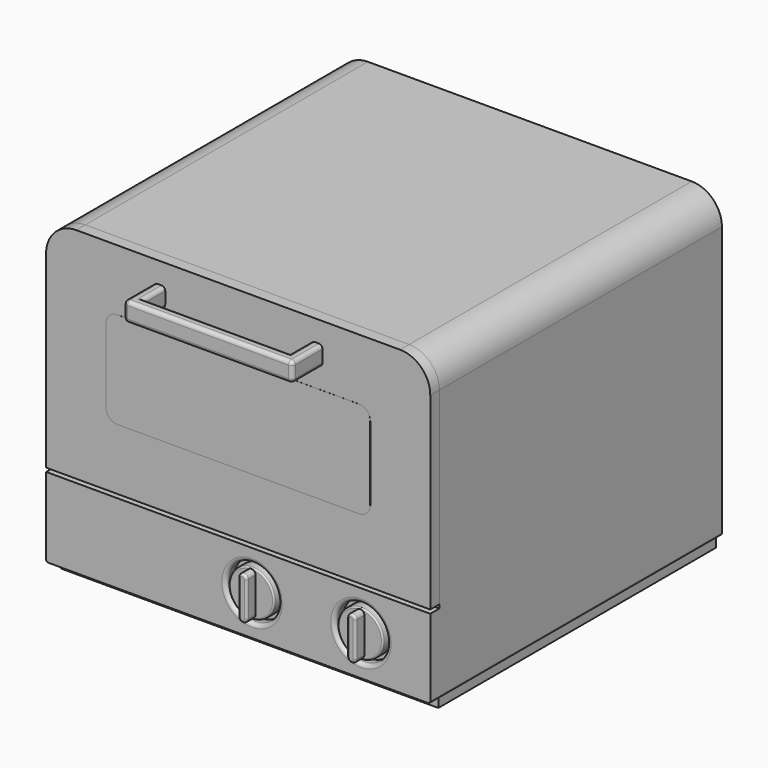
from build123d import *

# Parameters (mm, degrees)
SKETCH_W        = 500
SKETCH_H        = 460
PAD_DEPTH       = 14
SKETCH001_W     = 509
SKETCH001_H     = 468
PAD001_DEPTH    = 400
SKETCH002_W     = 509
SKETCH002_H     = 290
SKETCH002_H_2   = 105
PAD002_DEPTH    = 15
PAD003_DEPTH    = 15
SKETCH004_W     = 223.4271750293
SKETCH004_H     = 25.6065451083
PAD004_DEPTH    = 50
POCKET_DEPTH    = 386.2848248938
SKETCH006_R     = 35
POCKET001_DEPTH = 14
SKETCH007_R     = 30
PAD005_DEPTH    = 15
PAD006_DEPTH    = 15
SKETCH009_W     = 454.4790583689
SKETCH009_H     = 187.021194
POCKET002_DEPTH = 450
FILLET_R        = 3
FILLET001_R     = 40
FILLET002_R     = 5
FILLET003_R     = 2
FILLET004_R     = 3
FILLET005_R     = 10
FILLET006_R     = 5
FILLET007_R     = 5
POCKET003_DEPTH = 30
SKETCH015_R     = 30
POCKET004_DEPTH = 30
SKETCH016_R     = 30
POCKET005_DEPTH = 30
SKETCH019_W     = 225.385908
SKETCH019_H     = 30.579953
POCKET006_DEPTH = 50
SKETCH023_W     = 509
SKETCH023_H     = 15
POCKET009_DEPTH = 290
SKETCH011_R     = 30
PAD007_DEPTH    = 15
PAD008_DEPTH    = 15
FILLET008_R     = 2
FILLET009_R     = 3
SKETCH013_R     = 30
PAD009_DEPTH    = 15
PAD010_DEPTH    = 15
FILLET010_R     = 2
FILLET011_R     = 3
PAD011_DEPTH    = 15
PAD012_DEPTH    = 50
SKETCH020_W     = 193.4271750293
SKETCH020_H     = 35
POCKET007_DEPTH = 25.6075451083
FILLET012_R     = 5
FILLET013_R     = 5
PAD013_DEPTH    = 15
POCKET008_DEPTH = 15


with BuildPart() as body:
    # Sketch → Pad (new body)
    with BuildSketch(Plane.XY):
        Rectangle(SKETCH_W, SKETCH_H)
    extrude(amount=PAD_DEPTH)

    # Sketch001 (on Face6 of Pad) → Pad001 (join)
    with BuildSketch(Plane.XY.offset(14)):
        Rectangle(SKETCH001_W, SKETCH001_H)
    extrude(amount=PAD001_DEPTH)

    # Sketch002 (on Face7 of Pad001) → Pad002 (join)
    with BuildSketch(Plane.XZ.offset(234)):
        with Locations((0, 269)):
            Rectangle(SKETCH002_W, SKETCH002_H)
        with BuildLine():
            Line((-175, 317.9611046793), (-175, 220.0388953207))
            ThreePointArc((-175, 220.0388953207), (-170.6066017178, 209.4322936029), (-160, 205.0388953207))
            Line((-160, 205.0388953207), (160, 205.0388953207))
            ThreePointArc((160, 205.0388953207), (170.6066017178, 209.4322936029), (175, 220.0388953207))
            Line((175, 220.0388953207), (175, 317.9611046793))
            ThreePointArc((175, 317.9611046793), (170.6066017178, 328.5677063971), (160, 332.9611046793))
            Line((160, 332.9611046793), (-160, 332.9611046793))
            ThreePointArc((-160, 332.9611046793), (-170.6066017178, 328.5677063971), (-175, 317.9611046793))
        make_face(mode=Mode.SUBTRACT)
        with Locations((0, 66.5)):
            Rectangle(SKETCH002_W, SKETCH002_H_2)
    extrude(amount=PAD002_DEPTH)

    # Sketch003 (on Face30 of Pad002) → Pad003 (join)
    with BuildSketch(Plane.XZ.offset(234)):
        with BuildLine():
            Line((-175, 317.9610418038), (-175, 220.0388953207))
            ThreePointArc((-175, 220.0388953207), (-170.6066017178, 209.4322936029), (-160, 205.0388953207))
            Line((-160, 205.0388953207), (160.0000382942, 205.0388953207))
            ThreePointArc((160.0000382942, 205.0388953207), (170.606640012, 209.4322936029), (175.0000382942, 220.0388953207))
            Line((175.0000382942, 220.0388953207), (175.0000382942, 317.9610418038))
            ThreePointArc((175.0000382942, 317.9610418038), (170.606640012, 328.5676435216), (160.0000382942, 332.9610418038))
            Line((160.0000382942, 332.9610418038), (-160, 332.9610418038))
            ThreePointArc((-160, 332.9610418038), (-170.6066017178, 328.5676435216), (-175, 317.9610418038))
        make_face()
    extrude(amount=PAD003_DEPTH)

    # Sketch004 (on Face21 of Pad003) → Pad004 (join)
    with BuildSketch(Plane.XZ.offset(249)):
        with Locations((0.1004454124, 373.4805523397)):
            Rectangle(SKETCH004_W, SKETCH004_H)
    extrude(amount=PAD004_DEPTH)

    # Sketch005 (on Face23 of Pad004) → Pocket (cut, through all)
    with BuildSketch(Plane.XY.offset(386.2838248938)):
        with BuildLine():
            Line((-92.1015669712, -250.1999960338), (-92.1015669712, -274.604765518))
            ThreePointArc((-92.1015669712, -274.604765518), (-89.1726347831, -281.6758333298), (-82.1015669712, -284.604765518))
            Line((-82.1015669712, -284.604765518), (82.1015669712, -284.604765518))
            ThreePointArc((82.1015669712, -284.604765518), (89.1726347831, -281.6758333298), (92.1015669712, -274.604765518))
            Line((92.1015669712, -274.604765518), (92.1015669712, -250.7131694348))
            ThreePointArc((92.1015669712, -250.7131694348), (91.8096688281, -250.0070591316), (91.1043834506, -249.7131734011))
            Line((91.1043834506, -249.713173401), (-91.0987504919, -249.2))
            ThreePointArc((-91.0987504919, -249.2000000001), (-91.8076772745, -249.4918941769), (-92.1015669712, -250.1999960338))
        make_face()
    extrude(amount=-POCKET_DEPTH, mode=Mode.SUBTRACT)

    # Sketch006 (on Face13 of Pocket) → Pocket001 (cut)
    with BuildSketch(Plane.XZ.offset(249)):
        with Locations((162.575882, 66.5)):
            Circle(SKETCH006_R)
        with Locations((18.35178, 66.5)):
            Circle(SKETCH006_R)
    extrude(amount=-POCKET001_DEPTH, mode=Mode.SUBTRACT)

    # Sketch007 (on Face24 of Pocket001) → Pad005 (join)
    with BuildSketch(Plane.XZ.offset(235)):
        with Locations((18.35178, 66.5)):
            Circle(SKETCH007_R)
        with Locations((162.575882, 66.5)):
            Circle(SKETCH007_R)
    extrude(amount=PAD005_DEPTH)

    # Sketch008 (on Face42 of Pad005) → Pad006 (join)
    with BuildSketch(Plane.XZ.offset(250)):
        with BuildLine():
            ThreePointArc((23.8946803606, 89.5), (18.35178, 95.0429003606), (12.8088796394, 89.5))
            Line((12.8088796394, 89.5), (12.8088796394, 43.5))
            ThreePointArc((12.8088796394, 43.5), (18.35178, 37.9570996394), (23.8946803606, 43.5))
            Line((23.8946803606, 89.5), (23.8946803606, 43.5))
        make_face()
        with BuildLine():
            ThreePointArc((168.1187823606, 89.5), (162.575882, 95.0429003606), (157.0329816394, 89.5))
            Line((157.0329816394, 89.5), (157.0329816394, 43.5))
            ThreePointArc((157.0329816394, 43.5), (162.575882, 37.9570996394), (168.1187823606, 43.5))
            Line((168.1187823606, 89.5), (168.1187823606, 43.5))
        make_face()
    extrude(amount=PAD006_DEPTH)

    # Sketch009 (on Face7 of Pad001) → Pocket002 (cut)
    with BuildSketch(Plane.XZ.offset(234)):
        with Locations((0, 284.280754)):
            Rectangle(SKETCH009_W, SKETCH009_H)
    extrude(amount=-POCKET002_DEPTH, mode=Mode.SUBTRACT)

    # Fillet
    fillet_edges = [body.edges().sort_by_distance(p)[0] for p in [
        (-254.5, 0, 14),
        (254.5, 0, 14),
    ]]
    fillet(fillet_edges, radius=FILLET_R)

    # Fillet001
    fillet001_edges = [body.edges().sort_by_distance(p)[0] for p in [
        (254.5, 0, 414),
        (-254.5, 0, 414),
    ]]
    fillet(fillet001_edges, radius=FILLET001_R)

    # Fillet002
    fillet002_edges = [body.edges().sort_by_distance(p)[0] for p in [
        (-16.64822, -249, 66.5),
        (127.575882, -249, 66.5),
    ]]
    fillet(fillet002_edges, radius=FILLET002_R)

    # Fillet003
    fillet003_edges = [body.edges().sort_by_distance(p)[0] for p in [
        (-11.64822, -250, 66.5),
        (132.575882, -250, 66.5),
    ]]
    fillet(fillet003_edges, radius=FILLET003_R)

    # Fillet004
    fillet004_edges = [body.edges().sort_by_distance(p)[0] for p in [
        (23.89468, -265, 66.5),
        (168.118782, -265, 66.5),
    ]]
    fillet(fillet004_edges, radius=FILLET004_R)

    # Fillet005
    fillet005_edges = [body.edges().sort_by_distance(p)[0] for p in [
        (-111.613142, -299, 373.480552),
        (111.814033, -299, 373.480552),
    ]]
    fillet(fillet005_edges, radius=FILLET005_R)

    # Fillet006
    fillet006_edges = [body.edges().sort_by_distance(p)[0] for p in [
        (0.100445, -299, 386.283825),
    ]]
    fillet(fillet006_edges, radius=FILLET006_R)

    # Fillet007
    fillet007_edges = [body.edges().sort_by_distance(p)[0] for p in [
        (-92.101567, -262.402381, 386.283825),
    ]]
    fillet(fillet007_edges, radius=FILLET007_R)

    # Sketch010 (on Face2 of Fillet007) → Pocket003 (cut)
    with BuildSketch(Plane.XZ.offset(249)):
        with BuildLine():
            Line((-175, 317.9611046793), (-175, 220.0388953207))
            ThreePointArc((-175, 220.0388953207), (-170.6066017178, 209.4322936029), (-160, 205.0388953207))
            Line((-160, 205.0388953207), (160, 205.0388953207))
            ThreePointArc((160, 205.0388953207), (170.6066017178, 209.4322936029), (175, 220.0388953207))
            Line((175, 220.0388953207), (175, 317.9611046793))
            ThreePointArc((175, 317.9611046793), (170.6066017178, 328.5677063971), (160, 332.9611046793))
            Line((160, 332.9611046793), (-160, 332.9611046793))
            ThreePointArc((-160, 332.9611046793), (-170.6066017178, 328.5677063971), (-175, 317.9611046793))
        make_face()
    extrude(amount=-POCKET003_DEPTH, mode=Mode.SUBTRACT)

    # Sketch015 (on Face88 of Pocket003) → Pocket004 (cut)
    with BuildSketch(Plane.XZ.offset(265)):
        with Locations((18.35178, 66.5)):
            Circle(SKETCH015_R)
    extrude(amount=-POCKET004_DEPTH, mode=Mode.SUBTRACT)

    # Sketch016 (on Face85 of Pocket004) → Pocket005 (cut)
    with BuildSketch(Plane.XZ.offset(265)):
        with Locations((162.575882, 66.5)):
            Circle(SKETCH016_R)
    extrude(amount=-POCKET005_DEPTH, mode=Mode.SUBTRACT)

    # Sketch019 (on Face54 of Pocket005) → Pocket006 (cut)
    with BuildSketch(Plane.XZ.offset(299)):
        with Locations((1.079812, 375.9672565)):
            Rectangle(SKETCH019_W, SKETCH019_H)
    extrude(amount=-POCKET006_DEPTH, mode=Mode.SUBTRACT)

    # Sketch023 (on Face10 of Pocket006) → Pocket009 (cut)
    with BuildSketch(Plane(origin=(0, 0, 124), x_dir=(1, 0, 0), z_dir=(0, 0, -1))):
        with Locations((0, 241.5)):
            Rectangle(SKETCH023_W, SKETCH023_H)
    extrude(amount=-POCKET009_DEPTH, mode=Mode.SUBTRACT)


with BuildPart() as body001:
    # Sketch011 (on DatumPlane) → Pad007 (new body)
    with BuildSketch(Plane(origin=(18.35178, -235, 66.5), x_dir=(0, 0, 1), z_dir=(0, -1, 0))):
        Circle(SKETCH011_R)
    extrude(amount=PAD007_DEPTH)

    # Sketch012 (on Face3 of Pad007) → Pad008 (join)
    with BuildSketch(Plane(origin=(18.35178, -250, 66.5), x_dir=(0, 0, 1), z_dir=(0, -1, 0))):
        with BuildLine():
            ThreePointArc((-23, 5.5429), (-28.5429, 0), (-23, -5.5429))
            Line((-23, -5.5429), (23.0000001087, -5.5429))
            ThreePointArc((23.0000001087, -5.5429), (28.5429001087, 0), (23.0000001087, 5.5429))
            Line((-23, 5.5429), (23.0000001087, 5.5429))
        make_face()
    extrude(amount=PAD008_DEPTH)

    # Fillet008
    fillet008_edges = [body001.edges().sort_by_distance(p)[0] for p in [
        (18.35178, -250, 36.5),
    ]]
    fillet(fillet008_edges, radius=FILLET008_R)

    # Fillet009
    fillet009_edges = [body001.edges().sort_by_distance(p)[0] for p in [
        (12.80888, -265, 66.5),
    ]]
    fillet(fillet009_edges, radius=FILLET009_R)


with BuildPart() as body002:
    # Sketch013 (on DatumPlane) → Pad009 (new body)
    with BuildSketch(Plane(origin=(162.575882, -235, 66.5), x_dir=(0, 0, 1), z_dir=(0, -1, 0))):
        Circle(SKETCH013_R)
    extrude(amount=PAD009_DEPTH)

    # Sketch014 (on Face3 of Pad009) → Pad010 (join)
    with BuildSketch(Plane(origin=(162.575882, -250, 66.5), x_dir=(0, 0, 1), z_dir=(0, -1, 0))):
        with BuildLine():
            ThreePointArc((-23, 5.5429), (-28.5429, 0), (-23, -5.5429))
            Line((-23, -5.5429), (23, -5.5429))
            ThreePointArc((23, -5.5429), (28.5429, 0), (23, 5.5429))
            Line((-23, 5.5429), (23, 5.5429))
        make_face()
    extrude(amount=PAD010_DEPTH)

    # Fillet010
    fillet010_edges = [body002.edges().sort_by_distance(p)[0] for p in [
        (162.575882, -250, 36.5),
    ]]
    fillet(fillet010_edges, radius=FILLET010_R)

    # Fillet011
    fillet011_edges = [body002.edges().sort_by_distance(p)[0] for p in [
        (168.118782, -265, 66.5),
    ]]
    fillet(fillet011_edges, radius=FILLET011_R)


with BuildPart() as body003:
    # Sketch017 (on Face1 of CopyPocket013) → Pad011 (new body)
    with BuildSketch(Plane.XZ.offset(249)):
        with BuildLine():
            Line((-175, 318.2338912088), (-175, 219.684751))
            ThreePointArc((-175, 219.684751), (-170.7058093984, 209.3176578103), (-160.3387162088, 205.0234672088))
            Line((-160.3387162088, 205.0234672088), (160.198572, 205.0234672088))
            ThreePointArc((160.198572, 205.0234672088), (170.5656651897, 209.3176578103), (174.8598557912, 219.684751))
            Line((174.8598557912, 219.684751), (174.8598557912, 318.2338912088))
            ThreePointArc((174.8598557912, 318.2338912088), (170.5656651897, 328.6009843984), (160.198572, 332.895175))
            Line((160.198572, 332.895175), (-160.3387162088, 332.895175))
            ThreePointArc((-160.3387162088, 332.895175), (-170.7058093984, 328.6009843984), (-175, 318.2338912088))
        make_face()
    extrude(amount=-PAD011_DEPTH)


with BuildPart() as body004:
    # Sketch018 (on Face1 of CopyPocket014) → Pad012 (new body)
    with BuildSketch(Plane.XZ.offset(249)):
        with BuildLine():
            Line((-111.6131421022, 381.2838232679), (-111.6131421022, 365.6772814114))
            ThreePointArc((-111.6131421022, 365.6772814114), (-110.1486755319, 362.1417463558), (-106.6131404763, 360.6772797855))
            Line((-106.6131404763, 360.6772797855), (106.8140313012, 360.6772797855))
            ThreePointArc((106.8140313012, 360.6772797855), (110.3495663568, 362.1417463558), (111.8140329271, 365.6772814114))
            Line((111.8140329271, 365.6772814114), (111.8140329271, 381.2838232679))
            ThreePointArc((111.8140329271, 381.2838232679), (110.3495663568, 384.8193583235), (106.8140313012, 386.2838248938))
            Line((106.8140313012, 386.2838248938), (-106.6131404763, 386.2838248938))
            ThreePointArc((-106.6131404763, 386.2838248938), (-110.1486755319, 384.8193583235), (-111.6131421022, 381.2838232679))
        make_face()
    extrude(amount=PAD012_DEPTH)

    # Sketch020 (on Face7 of Pad012) → Pocket007 (cut, through all)
    with BuildSketch(Plane.XY.offset(386.2838248938)):
        with Locations((0.1004454124, -266.5)):
            Rectangle(SKETCH020_W, SKETCH020_H)
    extrude(amount=-POCKET007_DEPTH, mode=Mode.SUBTRACT)

    # Fillet012
    fillet012_edges = [body004.edges().sort_by_distance(p)[0] for p in [
        (0.100445, -299, 386.283825),
    ]]
    fillet(fillet012_edges, radius=FILLET012_R)

    # Fillet013
    fillet013_edges = [body004.edges().sort_by_distance(p)[0] for p in [
        (96.814033, -266.5, 386.283825),
        (96.814033, -266.5, 360.67728),
        (0.100445, -284, 386.283825),
        (0.100445, -284, 360.67728),
        (-96.613142, -266.5, 386.283825),
        (-96.613142, -266.5, 360.67728),
    ]]
    fillet(fillet013_edges, radius=FILLET013_R)


with BuildPart() as body005:
    # Sketch021 (on Face1 of CopyPocket015) → Pad013 (new body)
    with BuildSketch(Plane.XZ.offset(249)):
        with BuildLine():
            Line((-254.5, 373.9999861436), (-254.5, 124))
            Line((-254.5, 124), (254.5, 124))
            Line((254.5, 124), (254.5, 373.9999861436))
            ThreePointArc((254.5, 373.9999861436), (242.784267189, 402.284267189), (214.4999861436, 414))
            Line((214.4999861436, 414), (-214.4999861436, 414))
            ThreePointArc((-214.4999861436, 414), (-242.784267189, 402.284267189), (-254.5, 373.9999861436))
        make_face()
    extrude(amount=-PAD013_DEPTH)

    # Sketch022 (on Face7 of Pad013) → Pocket008 (cut)
    with BuildSketch(Plane.XZ.offset(249)):
        with BuildLine():
            Line((-175.0000002936, 317.9746328152), (-175.0000002936, 220.0062394023))
            ThreePointArc((-175.0000002936, 220.0062394023), (-170.6161637493, 209.4227217618), (-160.0326461087, 205.0388852175))
            Line((-160.0326461087, 205.0388852175), (160.0326512936, 205.0388852175))
            ThreePointArc((160.0326512936, 205.0388852175), (170.6161689341, 209.4227217618), (175.0000054784, 220.0062394023))
            Line((175.0000054784, 220.0062394023), (175.0000054784, 317.9746328152))
            ThreePointArc((175.0000054784, 317.9746328152), (170.6161689341, 328.5581504557), (160.0326512936, 332.941987))
            Line((160.0326512936, 332.941987), (-160.0326461087, 332.941987))
            ThreePointArc((-160.0326461087, 332.941987), (-170.6161637493, 328.5581504557), (-175.0000002936, 317.9746328152))
        make_face()
    extrude(amount=-POCKET008_DEPTH, mode=Mode.SUBTRACT)


with BuildPart() as body_clone:
    # Clone base: copy of Body
    add(body.part)


with BuildPart() as left_switch_clone:
    # Clone001 base: copy of Body001
    add(body001.part)


with BuildPart() as right_switch_clone:
    # Clone002 base: copy of Body002
    add(body002.part)


with BuildPart() as handle_clone:
    # Clone003 base: copy of Body004
    add(body004.part)


with BuildPart() as obj1:
    # Clone004 base: copy of Body005
    add(body005.part)


with BuildPart() as glass_clone:
    # Clone005 base: copy of Body003
    add(body003.part)


solid = Compound([body.part, body001.part, body002.part, body003.part, body004.part, body005.part, body_clone.part, left_switch_clone.part, right_switch_clone.part, handle_clone.part, obj1.part, glass_clone.part])
